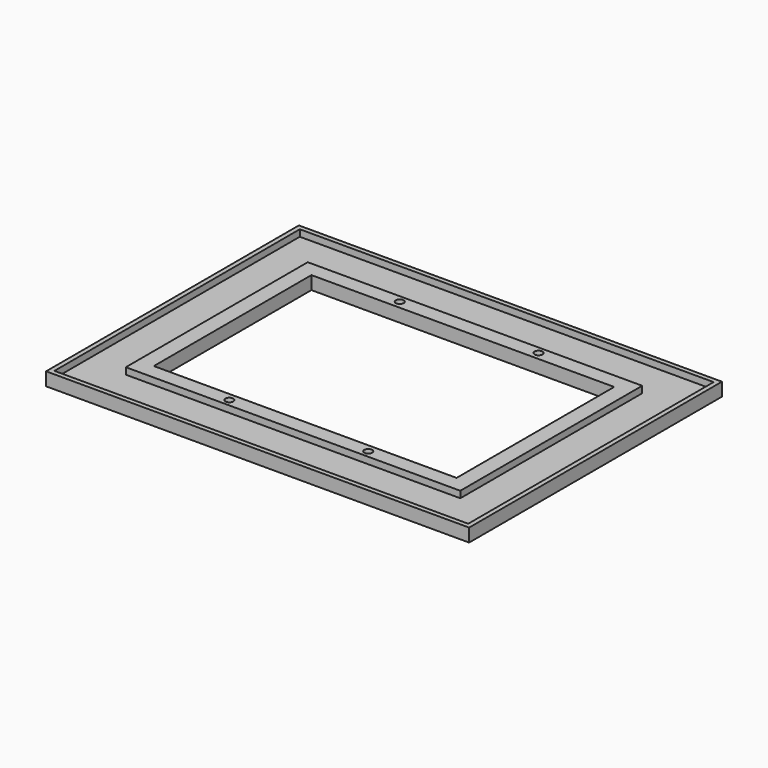
from build123d import *

# Parameters (mm, degrees)
F0_R     = 0.762
F1_DEPTH = 2.54
F3_W     = 79.502
F3_H     = 58.928
F3_W_2   = 64.262
F3_H_2   = 43.688
F4_DEPTH = 1.27


with BuildPart() as f1:
    # F0 (on Top) → F1 (new body)
    with BuildSketch(Plane.XY):
        Polygon((86.36, 0.883559), (5.08, 0.883559), (5.08, -29.469441), (5.08, -59.822441), (86.36, -59.822441), align=None)
        with Locations((32.385, -49.925204)):
            Circle(F0_R, mode=Mode.SUBTRACT)
        Polygon((16.637, -10.546441), (45.72, -10.546441), (74.803, -10.546441), (74.803, -48.392441), (45.72, -48.392441), (16.637, -48.392441), align=None, mode=Mode.SUBTRACT)
        with Locations((59.055, -49.925204)):
            Circle(F0_R, mode=Mode.SUBTRACT)
        with Locations((32.385, -9.022441)):
            Circle(F0_R, mode=Mode.SUBTRACT)
        with Locations((59.055, -9.022441)):
            Circle(F0_R, mode=Mode.SUBTRACT)
    extrude(amount=F1_DEPTH)

    # F3 (on offset) → F4 (cut)
    with BuildSketch(Plane.XY.offset(1.27)):
        with Locations((45.72, -29.464)):
            Rectangle(F3_W, F3_H)
        with Locations((45.72, -29.464)):
            Rectangle(F3_W_2, F3_H_2, mode=Mode.SUBTRACT)
    extrude(amount=F4_DEPTH, mode=Mode.SUBTRACT)


solid = f1.part
